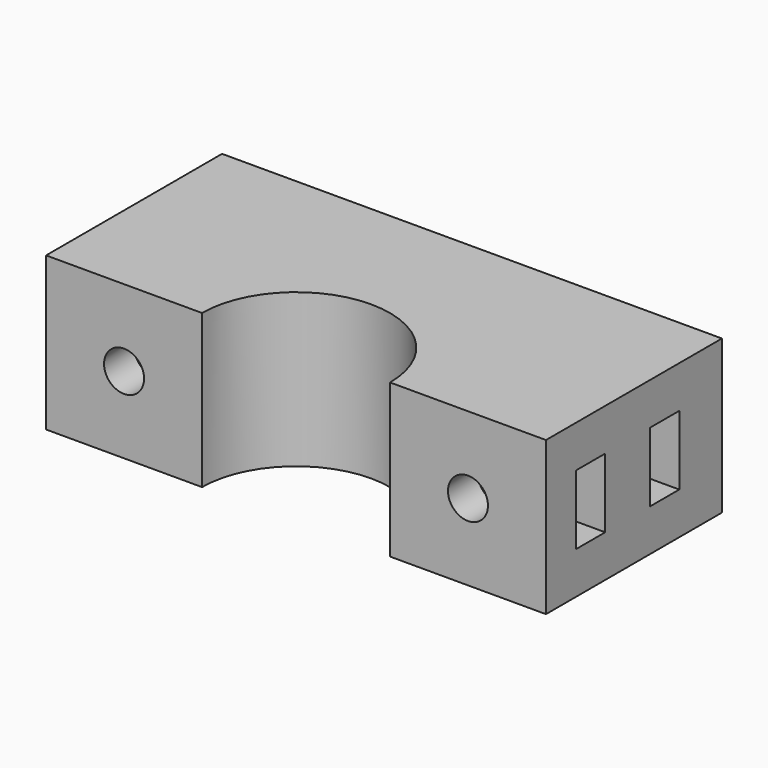
from build123d import *

# Parameters (mm, degrees)
F1_DEPTH  = 23
F5_D      = 6
F6_D      = 6
F7_START  = 14.6
F2_W      = 5.5
F2_H      = 10.4
F7_DEPTH  = 29.6
F9_R      = 8.5
F9_R_2    = 6
F10_DEPTH = 7
F8_R      = 8.5
F8_R_2    = 6
F11_DEPTH = 7
F12_START = -14.6
F12_DEPTH = 30.8


with BuildPart() as f1:
    # F0 (on Top) → F1 (new body)
    with BuildSketch(Plane.XY):
        with BuildLine():
            Line((37.5, 33), (-37.5, 33))
            Line((-37.5, 33), (-37.5, 0))
            Line((-37.5, 0), (-14.1, 0))
            ThreePointArc((-14.1, 0), (0, 14.1), (14.1, 0))
            Line((14.1, 0), (37.5, 0))
            Line((37.5, 0), (37.5, 33))
        make_face()
    extrude(amount=F1_DEPTH)

    # F5 (through all)
    with Locations(Plane.XZ):
        with Locations((-25.8, 11.5)):
            Hole(F5_D / 2)

    # F6 (through all)
    with Locations(Plane.XZ):
        with Locations((25.8, 11.5)):
            Hole(F6_D / 2)

    # F2 (on Right) → F7 (cut)
    with BuildSketch(Plane.YZ.offset(F7_START)):
        with Locations((8.363037575, 11.5)):
            Rectangle(F2_W, F2_H)
        with Locations((22.25, 11.5)):
            Rectangle(F2_W, F2_H)
    extrude(amount=F7_DEPTH, mode=Mode.SUBTRACT)

    # F9 (on face) → F10 (cut)
    with BuildSketch(Plane(origin=(0, 33, 0), x_dir=(-1, 0, 0), z_dir=(0, 1, 0))):
        with Locations((-25.8, 11.5)):
            Circle(F9_R)
        with Locations((-25.8, 11.5)):
            Circle(F9_R_2, mode=Mode.SUBTRACT)
    extrude(amount=-F10_DEPTH, mode=Mode.SUBTRACT)

    # F8 (on face) → F11 (cut)
    with BuildSketch(Plane(origin=(0, 33, 0), x_dir=(-1, 0, 0), z_dir=(0, 1, 0))):
        with Locations((25.8, 11.5)):
            Circle(F8_R)
        with Locations((25.8, 11.5)):
            Circle(F8_R_2, mode=Mode.SUBTRACT)
    extrude(amount=-F11_DEPTH, mode=Mode.SUBTRACT)

    # F2 (on Right) → F12 (cut)
    with BuildSketch(Plane.YZ.offset(F12_START)):
        with Locations((8.363037575, 11.5)):
            Rectangle(F2_W, F2_H)
        with Locations((22.25, 11.5)):
            Rectangle(F2_W, F2_H)
    extrude(amount=-F12_DEPTH, mode=Mode.SUBTRACT)


solid = f1.part
